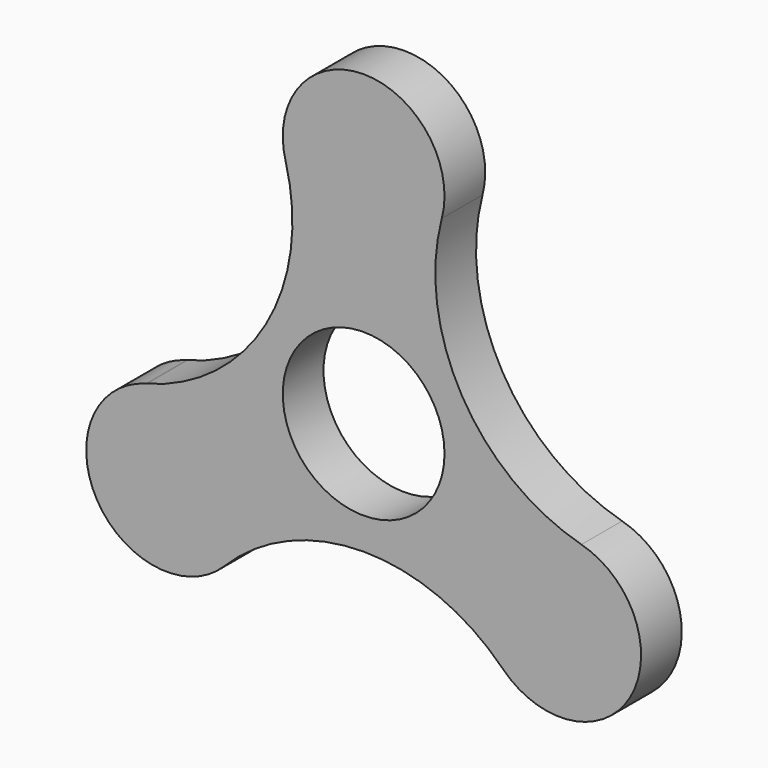
from build123d import *

# Parameters (mm, degrees)
F0_R     = 11.125
F1_DEPTH = 7


with BuildPart() as f1:
    # F0 (on Front) → F1 (new body)
    with BuildSketch(Plane.XZ):
        with BuildLine():
            ThreePointArc((29.959284, -4.877131), (13.516785, 7.803919), (10.755922, 28.384067))
            ThreePointArc((10.755922, 28.384067), (-0.057217, 42.350707), (-10.726123, 28.273581))
            ThreePointArc((-10.726123, 28.273581), (-10.721093, 28.255169), (-10.716133, 28.236739))
            ThreePointArc((-10.716133, 28.236739), (-13.427603, 7.739835), (-29.832869, -4.843581))
            ThreePointArc((-29.832869, -4.843581), (-29.896056, -4.860433), (-29.959284, -4.877131))
            ThreePointArc((-29.959284, -4.877131), (-36.676916, -21.175427), (-19.203362, -23.506936))
            ThreePointArc((-19.203362, -23.506936), (-19.149062, -23.452104), (-19.094605, -23.397428))
            ThreePointArc((-19.094605, -23.397428), (0, -15.48167), (19.094605, -23.397428))
            ThreePointArc((19.094605, -23.397428), (19.149062, -23.452104), (19.203362, -23.506936))
            ThreePointArc((19.203362, -23.506936), (36.676916, -21.175427), (29.959284, -4.877131))
        make_face()
        Circle(F0_R, mode=Mode.SUBTRACT)
        with BuildLine():
            ThreePointArc((19.094605, -23.397428), (19.148794, -23.45237), (19.203362, -23.506936))
            ThreePointArc((19.203362, -23.506936), (19.149062, -23.452104), (19.094605, -23.397428))
        make_face()
        with BuildLine():
            ThreePointArc((-29.959284, -4.877131), (-29.896056, -4.860433), (-29.832869, -4.843581))
            ThreePointArc((-29.832869, -4.843581), (-29.896126, -4.86017), (-29.959284, -4.877131))
        make_face()
        with BuildLine():
            ThreePointArc((-19.203362, -23.506936), (-19.148794, -23.45237), (-19.094605, -23.397428))
            ThreePointArc((-19.094605, -23.397428), (-19.149062, -23.452104), (-19.203362, -23.506936))
        make_face()
    extrude(amount=F1_DEPTH)


solid = f1.part
